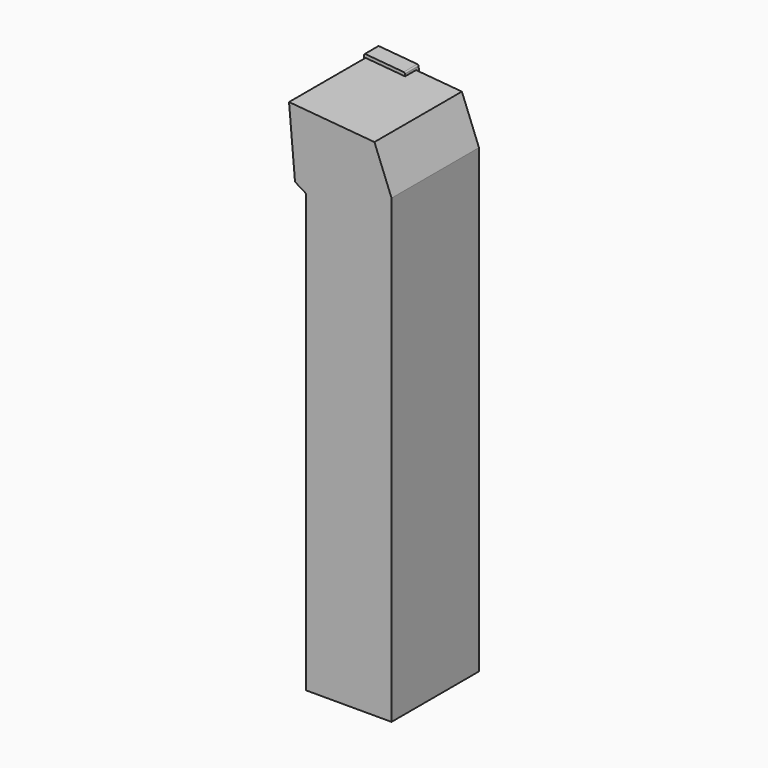
from build123d import *

# Parameters (mm, degrees)
F1_DEPTH      = 32
F3_DEPTH      = 1
F3_DEPTH_BACK = 4
F4_R          = 0.4


with BuildPart() as f1:
    # F0 (on Front) → F1 (new body)
    with BuildSketch(Plane.XZ):
        Polygon((0, 128), (0, 0), (25, 0), (25, 135), (20, 147.812783), (-5, 150), (-3.250227, 130), align=None)
    extrude(amount=F1_DEPTH)

    # F2 (on face) → F3 (join, two sides)
    with BuildSketch(Plane(origin=(0, 0, 0), x_dir=(-1, 0, 0), z_dir=(0, 1, 0))) as f3_sk:
        Polygon((4.450136, 139), (5.5, 151), (-6.5, 149.950136), (-7.549864, 137.950136), align=None)
        Polygon((4.450136, 139), (5.5, 151), (-6.5, 149.950136), (-7.549864, 137.950136), align=None)
    extrude(amount=F3_DEPTH)
    extrude(f3_sk.sketch, amount=-F3_DEPTH_BACK)

    # F4
    f4_edges = [f1.edges().sort_by_distance(p)[0] for p in [
        (-5.5, -1.5, 151),
        (6.5, -1.5, 149.950136),
        (-4.450136, -1.5, 139),
        (7.549864, 0.5, 137.950136),
    ]]
    fillet(f4_edges, radius=F4_R)


solid = f1.part
